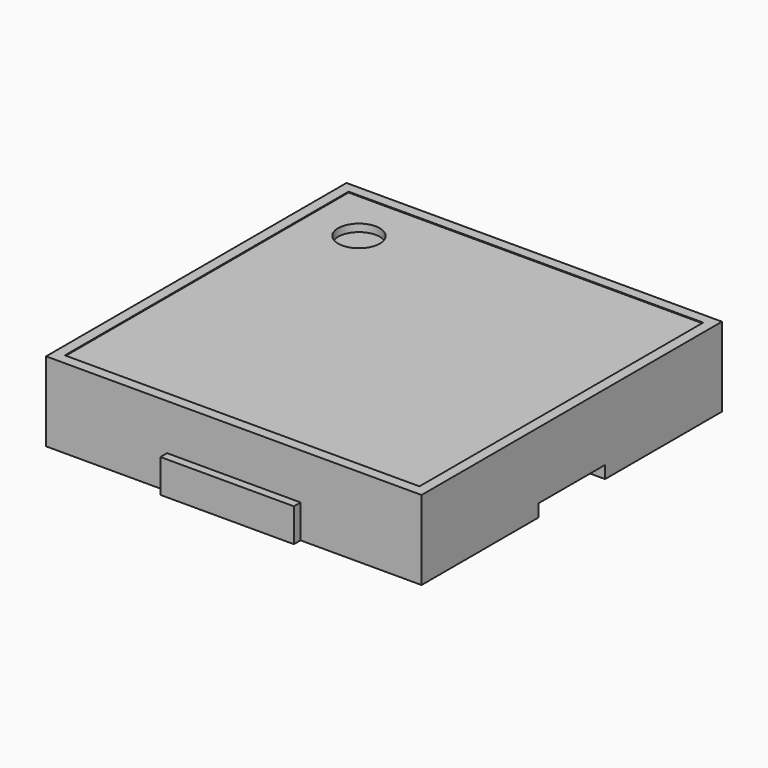
from build123d import *

# Parameters (mm, degrees)
F1_DEPTH  = 1.9
F2_R      = 0.5
F3_DEPTH  = 0.2
F5_DEPTH  = 0.8
F6_W      = 3.2
F6_H      = 1
F7_DEPTH  = 1.2
F8_W      = 1.5
F8_H      = 2
F9_DEPTH  = 0.3
F10_W     = 7.5
F10_H     = 2
F11_DEPTH = 0.1
F12_W     = 8.5
F12_H     = 8.5
F13_DEPTH = 0.02


with BuildPart() as f1:
    # F0 (on Top) → F1 (new body)
    with BuildSketch(Plane.XY):
        Polygon((-1.6, 4.5), (-4.5, 4.5), (-4.5, -4.5), (-1.6, -4.5), (-1.6, -3.5), (1.6, -3.5), (1.6, -4.5), (4.5, -4.5), (4.5, 4.5), (1.6, 4.5), (1.6, 3.5), (-1.6, 3.5), align=None)
    extrude(amount=F1_DEPTH)

    # F2 (on face) → F3 (cut)
    with BuildSketch(Plane.XY.offset(1.9)):
        with Locations((-3, 3)):
            Circle(F2_R)
    extrude(amount=-F3_DEPTH, mode=Mode.SUBTRACT)

    # F6 (on face) → F7 (join)
    with BuildSketch(Plane.XY.offset(1.9)):
        with Locations((0, 4)):
            Rectangle(F6_W, F6_H)
        with Locations((0, -4)):
            Rectangle(F6_W, F6_H)
    extrude(amount=-F7_DEPTH)

    # F8 (on face) → F9 (cut)
    with BuildSketch(Plane(origin=(0, 0, 0), x_dir=(1, 0, 0), z_dir=(0, 0, -1))):
        with Locations((-3.75, 0)):
            Rectangle(F8_W, F8_H)
        with Locations((3.75, 0)):
            Rectangle(F8_W, F8_H)
    extrude(amount=-F9_DEPTH, mode=Mode.SUBTRACT)

    # F12 (on face) → F13 (cut)
    with BuildSketch(Plane.XY.offset(1.9)):
        Rectangle(F12_W, F12_H)
    extrude(amount=-F13_DEPTH, mode=Mode.SUBTRACT)


with BuildPart() as f5:
    # F4 (on face) → F5 (new body)
    with BuildSketch(Plane(origin=(0, 0, 0), x_dir=(1, 0, 0), z_dir=(0, 0, -1))):
        Polygon((-1.6, 4.7), (-1.6, 4.5), (-1.6, 3.5), (1.6, 3.5), (1.6, 4.5), (1.6, 4.7), align=None)
    extrude(amount=-F5_DEPTH)


with BuildPart() as f5b:
    # F4 (on face) → F5, piece 2 (new body)
    with BuildSketch(Plane(origin=(0, 0, 0), x_dir=(1, 0, 0), z_dir=(0, 0, -1))):
        Polygon((1.6, -4.5), (1.6, -3.5), (-1.6, -3.5), (-1.6, -4.5), (-1.6, -4.7), (1.6, -4.7), align=None)
    extrude(amount=-F5_DEPTH)


with BuildPart() as f11:
    # F10 (on face) → F11 (new body)
    with BuildSketch(Plane(origin=(0, 0, 0.3), x_dir=(1, 0, 0), z_dir=(0, 0, -1))):
        Rectangle(F10_W, F10_H)
    extrude(amount=F11_DEPTH)


solid = Compound([f1.part, f5.part, f5b.part, f11.part])
